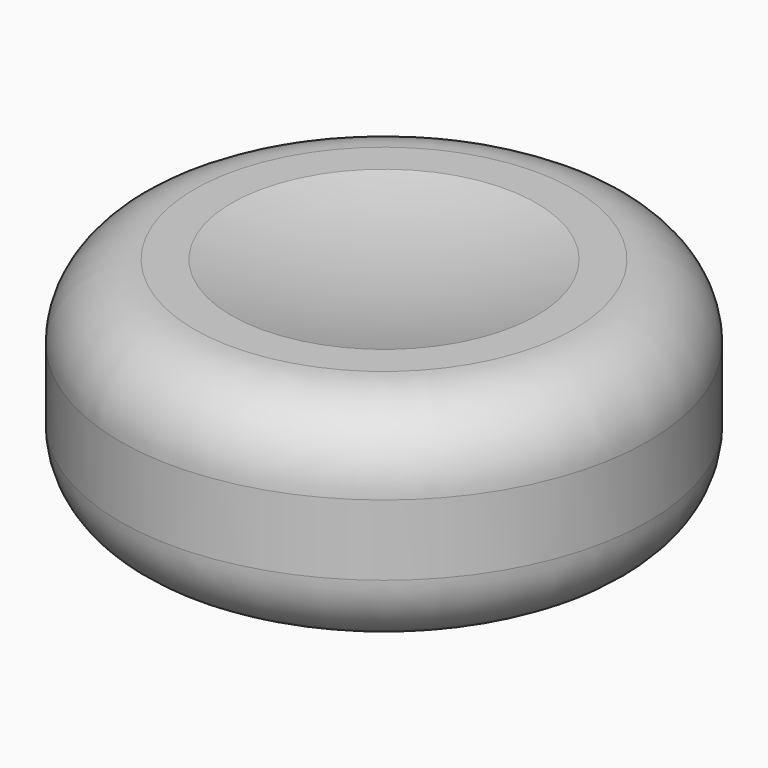
from build123d import *

# Parameters (mm, degrees)
F0_R     = 18.034415
F1_DEPTH = 14.986
F2_R     = 5.08


with BuildPart() as f1:
    # F0 (on Top) → F1 (new body)
    with BuildSketch(Plane.XY):
        Circle(F0_R)
    extrude(amount=F1_DEPTH)

    # F2
    f2_edges = [f1.edges().sort_by_distance(p)[0] for p in [
        (18.034415, 0, 7.493),
        (-18.034415, 0, 0),
        (-18.034415, 0, 14.986),
    ]]
    fillet(f2_edges, radius=F2_R)

    # F3 (on Right) → F4 (revolve, cut)
    with BuildSketch(Plane.YZ):
        with BuildLine():
            Line((-41.504344, 55.164188), (41.504344, 55.164188))
            ThreePointArc((41.504344, 55.164188), (0, 96.668532), (-41.504344, 55.164188))
        make_face()
    revolve(axis=Axis((0, 0.253545, 55.164188), (0, -1, 0)), mode=Mode.SUBTRACT)

    # F5 (on Front) → F6 (revolve, cut)
    with BuildSketch(Plane.XZ):
        with BuildLine():
            ThreePointArc((-38.461781, -37.017379), (0, -75.47916), (38.461781, -37.017379))
            Line((38.461781, -37.017379), (-38.461781, -37.017379))
        make_face()
    revolve(axis=Axis((1.748852, 0, -37.017379), (-1, 0, 0)), mode=Mode.SUBTRACT)


solid = f1.part
